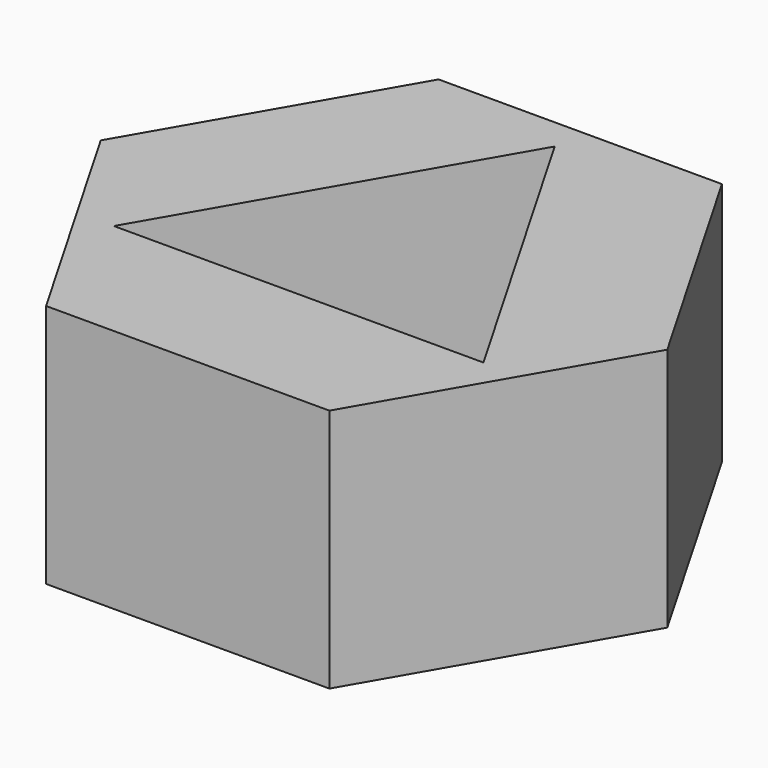
from build123d import *

# Parameters (mm, degrees)
F1_DEPTH = 55.88
F3_DEPTH = 60.706


with BuildPart() as f1:
    # F0 (on Top) → F1 (new body)
    with BuildSketch(Plane.XY):
        Polygon((-32.346603, -56.02596), (32.346603, -56.02596), (64.693206, 0), (32.346603, 56.02596), (-32.346603, 56.02596), (-64.693206, 0), align=None)
    extrude(amount=F1_DEPTH)

    # F2 (on face) → F3 (cut)
    with BuildSketch(Plane.XY.offset(55.88)):
        Polygon((-42.19836, -24.363235), (42.19836, -24.363235), (0, 48.726469), align=None)
    extrude(amount=-F3_DEPTH, mode=Mode.SUBTRACT)


solid = f1.part
